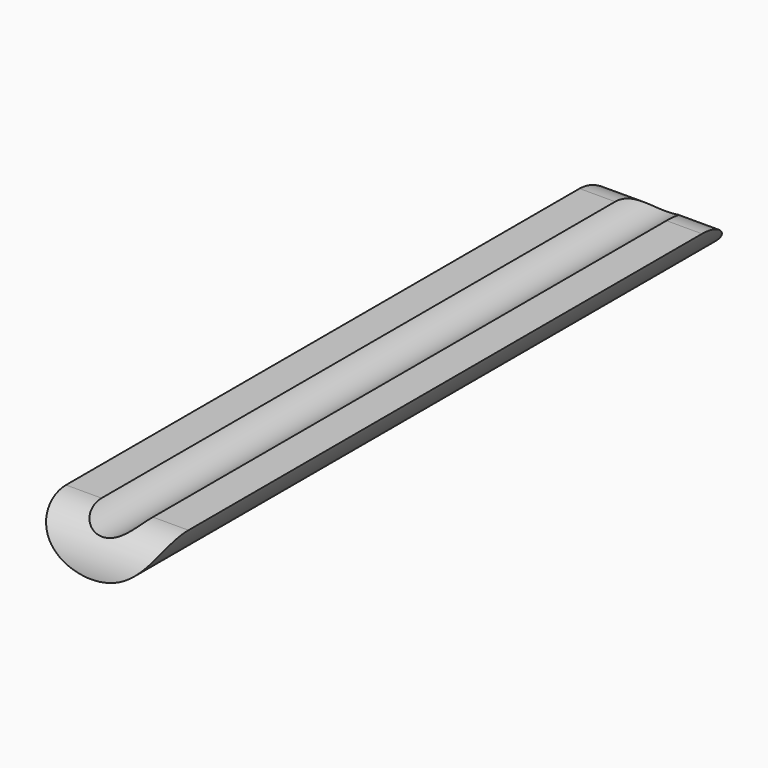
from build123d import *

# Parameters (mm, degrees)
F0_R     = 10
F0_R_2   = 5
F1_DEPTH = 180
F3_DEPTH = 20


with BuildPart() as f1:
    # F0 (on Front) → F1 (new body)
    with BuildSketch(Plane.XZ):
        Circle(F0_R)
        Circle(F0_R_2, mode=Mode.SUBTRACT)
    extrude(amount=F1_DEPTH)

    # F2 (on Right) → F3 (cut, symmetric)
    with BuildSketch(Plane.YZ):
        with BuildLine():
            ThreePointArc((-147, -10), (-144.949747, -5.050253), (-140, -3))
            Line((-140, -3), (-40, -3))
            ThreePointArc((-40, -3), (-35.050253, -5.050253), (-33, -10))
            Line((-33, -10), (-14.682153, -24.968417))
            Line((-14.682153, -24.968417), (36.49023, -33.983029))
            Line((36.49023, -33.983029), (19.090915, 33.983029))
            Line((19.090915, 33.983029), (-179.398015, 25.044244))
            Line((-179.398015, 25.044244), (-188.975835, -10))
            Line((-188.975835, -10), (-147, -10))
        make_face()
    extrude(amount=F3_DEPTH, both=True, mode=Mode.SUBTRACT)


solid = f1.part
